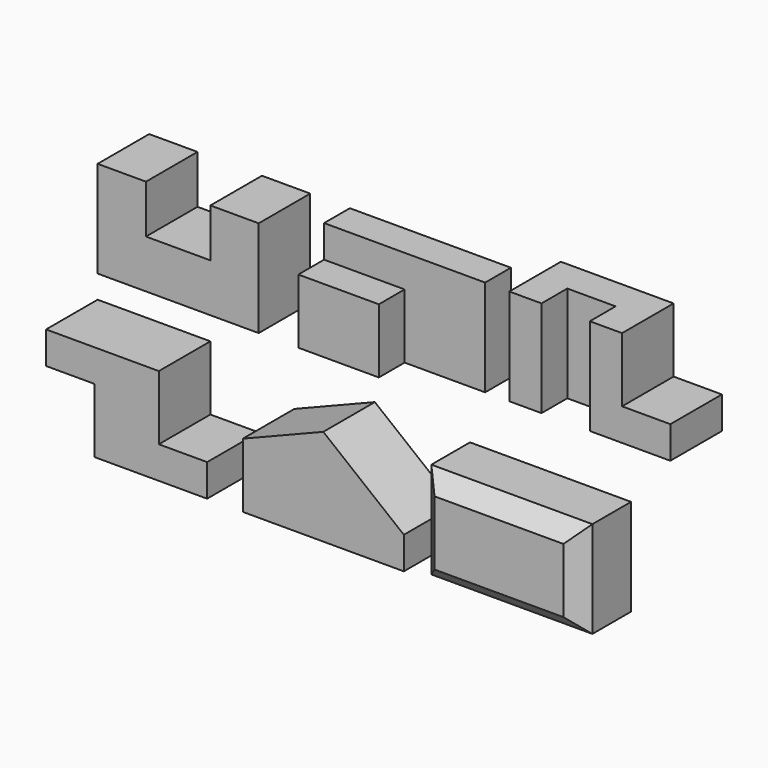
from build123d import *

# Parameters (mm, degrees)
F1_DEPTH  = 101.6
F3_DEPTH  = 152.4
F4_W      = 127
F4_H      = 50.8
F5_DEPTH  = 50.8
F6_W      = 50.8
F6_H      = 152.4
F7_DEPTH  = 101.6
F8_W      = 76.2
F8_H      = 50.8
F9_DEPTH  = 152.4
F11_DEPTH = 101.6
F13_DEPTH = 101.6
F14_W     = 254
F14_H     = 152.4
F15_DEPTH = 101.6
F16_SIZE  = 25.4


with BuildPart() as f1:
    # F0 (on Front) → F1 (new body)
    with BuildSketch(Plane.XZ):
        Polygon((0, 152.4), (0, 0), (254, 0), (254, 152.4), (177.8, 152.4), (177.8, 76.2), (76.2, 76.2), (76.2, 152.4), align=None)
    extrude(amount=-F1_DEPTH)


with BuildPart() as f3:
    # F2 (on Top) → F3 (new body)
    with BuildSketch(Plane.XY):
        Polygon((316.467922, 101.6), (316.467922, 0), (443.467922, 0), (443.467922, 50.8), (570.467922, 50.8), (570.467922, 101.6), align=None)
    extrude(amount=F3_DEPTH)

    # F4 (on face) → F5 (cut)
    with BuildSketch(Plane.XZ):
        with Locations((379.967922, 127)):
            Rectangle(F4_W, F4_H)
    extrude(amount=-F5_DEPTH, mode=Mode.SUBTRACT)


with BuildPart() as f7:
    # F6 (on face) → F7 (new body)
    with BuildSketch(Plane.XZ.offset(-50.8)):
        with Locations((633.937912, 76.2)):
            Rectangle(F6_W, F6_H)
        Polygon((659.337912, 152.4), (659.337912, 0), (862.537912, 0), (862.537912, 50.8), (786.337912, 50.8), (786.337912, 152.4), align=None)
    extrude(amount=-F7_DEPTH)

    # F8 (on face) → F9 (cut)
    with BuildSketch(Plane.XY.offset(152.4)):
        with Locations((697.437912, 76.2)):
            Rectangle(F8_W, F8_H)
    extrude(amount=-F9_DEPTH, mode=Mode.SUBTRACT)


with BuildPart() as f11:
    # F10 (on Front) → F11 (new body)
    with BuildSketch(Plane.XZ):
        Polygon((177.8, -36.204632), (0, -36.204632), (0, -87.004632), (76.2, -87.004632), (76.2, -188.604632), (254, -188.604632), (254, -137.804632), (177.8, -137.804632), align=None)
    extrude(amount=F11_DEPTH)


with BuildPart() as f13:
    # F12 (on face) → F13 (new body)
    with BuildSketch(Plane.XZ.offset(101.6)):
        Polygon((310.146183, -87.004632), (310.146183, -188.604632), (564.146183, -188.604632), (564.146183, -137.804632), (437.146183, -36.204632), align=None)
    extrude(amount=-F13_DEPTH)


with BuildPart() as f15:
    # F14 (on face) → F15 (new body)
    with BuildSketch(Plane.XZ.offset(101.6)):
        with Locations((714.18938, -119.508022)):
            Rectangle(F14_W, F14_H)
    extrude(amount=-F15_DEPTH)

    # F16
    f16_edges = [f15.edges().sort_by_distance(p)[0] for p in [
        (714.18938, -101.6, -43.308022),
        (714.18938, -101.6, -195.708022),
        (841.18938, -101.6, -119.508022),
        (587.18938, -101.6, -119.508022),
    ]]
    chamfer(f16_edges, length=F16_SIZE)


solid = Compound([f1.part, f3.part, f7.part, f11.part, f13.part, f15.part])
